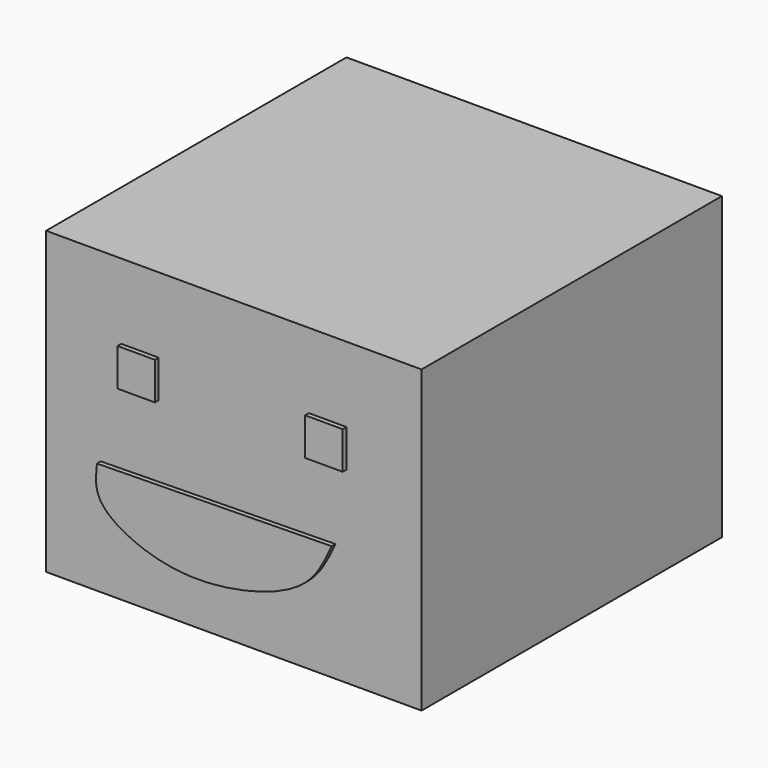
from build123d import *

# Parameters (mm, degrees)
F0_W     = 20
F0_H     = 16
F1_DEPTH = 20
F2_W     = 2
F2_H     = 2
F3_DEPTH = 0.25
F5_DEPTH = 0.25


with BuildPart() as f1:
    # F0 (on Front) → F1 (new body)
    with BuildSketch(Plane.XZ):
        Rectangle(F0_W, F0_H)
    extrude(amount=F1_DEPTH)


with BuildPart() as f3:
    # F2 (on face) → F3 (new body)
    with BuildSketch(Plane.XZ.offset(20)):
        with Locations((5, 3)):
            Rectangle(F2_W, F2_H)
    extrude(amount=F3_DEPTH)


with BuildPart() as f3b:
    # F2 (on face) → F3, piece 2 (new body)
    with BuildSketch(Plane.XZ.offset(20)):
        with Locations((-5, 3)):
            Rectangle(F2_W, F2_H)
    extrude(amount=F3_DEPTH)


with BuildPart() as f5:
    # F4 (on face) → F5 (new body)
    with BuildSketch(Plane.XZ.offset(20)):
        with BuildLine():
            Line((5.4117310792, -1.679502544), (-7.0912330411, -1.8661138602))
            add(Edge.make_bspline(
                [(-7.0912330411, -1.8661138602), (-7.1559102468, -2.4449120118), (-7.3104809197, -3.8281693575), (-3.9732129095, -5.5770796248), (-0.0732200144, -5.6682157322), (4.2088757497, -4.3049709771), (5.0414241055, -2.4877703766), (5.4117310792, -1.679502544)],
                knots=[0, 0, 0, 0, 0.1473470695, 0.3521416156, 0.581927586, 0.8140466805, 1, 1, 1, 1], degree=3))
        make_face()
    extrude(amount=F5_DEPTH)


solid = Compound([f1.part, f3.part, f3b.part, f5.part])
